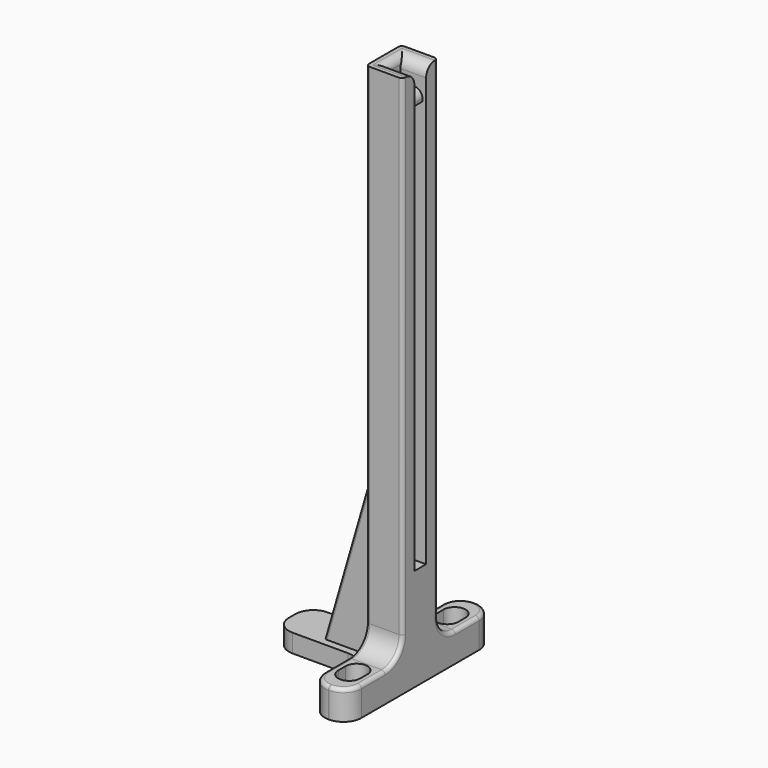
from build123d import *

# Parameters (mm, degrees)
SKETCH_W        = 10
SKETCH_H        = 50
PAD_DEPTH       = 8
SKETCH001_W     = 10
SKETCH001_H     = 12
PAD001_DEPTH    = 140
SKETCH002_W     = 4
SKETCH002_H     = 120
POCKET_DEPTH    = 7
POCKET001_DEPTH = 8.001
SKETCH004_W     = 12
SKETCH004_H     = 5
PAD002_DEPTH    = 25
SKETCH005_W     = 1.5
SKETCH005_H     = 45
PAD003_DEPTH    = 13
POCKET002_DEPTH = 29.001
FILLET_R        = 4.9
FILLET001_R     = 6
FILLET002_R     = 0.7
FILLET003_R     = 1
SKETCH007_W     = 4
SKETCH007_H     = 3
PAD004_DEPTH    = 6
FILLET004_R     = 2.3
FILLET005_R     = 3
FILLET006_R     = 2


with BuildPart() as part:
    # Sketch → Pad (new body)
    with BuildSketch(Plane.XY):
        with Locations((-17.676624, 11.727997)):
            Rectangle(SKETCH_W, SKETCH_H)
    extrude(amount=PAD_DEPTH)

    # Sketch001 (on Face6 of Pad) → Pad001 (join)
    with BuildSketch(Plane.XY.offset(8)):
        with Locations((-17.676624, 11.727997)):
            Rectangle(SKETCH001_W, SKETCH001_H)
    extrude(amount=PAD001_DEPTH)

    # Sketch002 (on Face9 of Pad001) → Pocket (cut)
    with BuildSketch(Plane.YZ.offset(-12.676624)):
        with Locations((11.727997, 88)):
            Rectangle(SKETCH002_W, SKETCH002_H)
    extrude(amount=-POCKET_DEPTH, mode=Mode.SUBTRACT)

    # Sketch003 (on Face7 of Pocket) → Pocket001 (cut, through all)
    with BuildSketch(Plane.XY.offset(8)):
        with BuildLine():
            ThreePointArc((-14.676624, -3.772003), (-17.676624, -0.772003), (-20.676624, -3.772003))
            Line((-20.676624, -3.772003), (-20.676624, -6.272003))
            ThreePointArc((-20.676624, -6.272003), (-17.676624, -9.272003), (-14.676624, -6.272003))
            Line((-14.676624, -3.772003), (-14.676624, -6.272003))
        make_face()
        with BuildLine():
            ThreePointArc((-14.676624, 29.727997), (-17.676624, 32.727997), (-20.676624, 29.727997))
            Line((-20.676624, 29.727997), (-20.676624, 27.227997))
            ThreePointArc((-20.676624, 27.227997), (-17.676624, 24.227997), (-14.676624, 27.227997))
            Line((-14.676624, 29.727997), (-14.676624, 27.227997))
        make_face()
    extrude(amount=-POCKET001_DEPTH, mode=Mode.SUBTRACT)

    # Sketch004 (on Face2 of Pocket001) → Pad002 (join)
    with BuildSketch(Plane(origin=(-22.676624, 0, 0), x_dir=(0, -1, 0), z_dir=(-1, 0, 0))):
        with Locations((-11.727997, 2.5)):
            Rectangle(SKETCH004_W, SKETCH004_H)
    extrude(amount=PAD002_DEPTH)

    # Sketch005 (on Face9 of Pad002) → Pad003 (join)
    with BuildSketch(Plane(origin=(-22.676624, 0, 0), x_dir=(0, -1, 0), z_dir=(-1, 0, 0))):
        with Locations((-8.477997, 27.5)):
            Rectangle(SKETCH005_W, SKETCH005_H)
        with Locations((-14.977997, 27.5)):
            Rectangle(SKETCH005_W, SKETCH005_H)
    extrude(amount=PAD003_DEPTH)

    # Sketch006 (on Face29 of Pad003) → Pocket002 (cut, through all)
    with BuildSketch(Plane.XZ.offset(-7.727997)):
        Polygon((-35.676624, 5), (-22.676624, 50), (-35.676624, 50), align=None)
    extrude(amount=-POCKET002_DEPTH, mode=Mode.SUBTRACT)

    # Fillet
    fillet_edges = [part.edges().sort_by_distance(p)[0] for p in [
        (-12.676624, 36.727997, 4),
        (-22.676624, 36.727997, 4),
        (-22.676624, 17.727997, 2.5),
        (-47.676624, 17.727997, 2.5),
        (-47.676624, 5.727997, 2.5),
        (-22.676624, 5.727997, 2.5),
        (-22.676624, -13.272003, 4),
        (-12.676624, -13.272003, 4),
    ]]
    fillet(fillet_edges, radius=FILLET_R)

    # Fillet001
    fillet001_edges = [part.edges().sort_by_distance(p)[0] for p in [
        (-17.676624, 5.727997, 8),
        (-17.676624, 17.727997, 8),
    ]]
    fillet(fillet001_edges, radius=FILLET001_R)

    # Fillet002
    fillet002_edges = [part.edges().sort_by_distance(p)[0] for p in [
        (-29.176624, 7.727997, 27.5),
        (-29.176624, 9.227997, 27.5),
        (-29.176624, 14.227997, 27.5),
        (-29.176624, 15.727997, 27.5),
    ]]
    fillet(fillet002_edges, radius=FILLET002_R)

    # Fillet003
    fillet003_edges = [part.edges().sort_by_distance(p)[0] for p in [
        (-22.676624, 5.727997, 81),
        (-22.676624, 17.727997, 99),
    ]]
    fillet(fillet003_edges, radius=FILLET003_R)

    # Sketch007 (on Face57 of Fillet003) → Pad004 (join)
    with BuildSketch(Plane.YZ.offset(-19.676624)):
        with Locations((11.727997, 140.5)):
            Rectangle(SKETCH007_W, SKETCH007_H)
    extrude(amount=PAD004_DEPTH)

    # Fillet004
    fillet004_edges = [part.edges().sort_by_distance(p)[0] for p in [
        (-13.676624, 11.727997, 142),
    ]]
    fillet(fillet004_edges, radius=FILLET004_R)

    # Fillet005
    fillet005_edges = [part.edges().sort_by_distance(p)[0] for p in [
        (-16.176624, 9.727997, 148),
        (-16.176624, 13.727997, 148),
    ]]
    fillet(fillet005_edges, radius=FILLET005_R)

    # Fillet006
    fillet006_edges = [part.edges().sort_by_distance(p)[0] for p in [
        (-19.676624, 11.727997, 148),
    ]]
    fillet(fillet006_edges, radius=FILLET006_R)


solid = part.part
